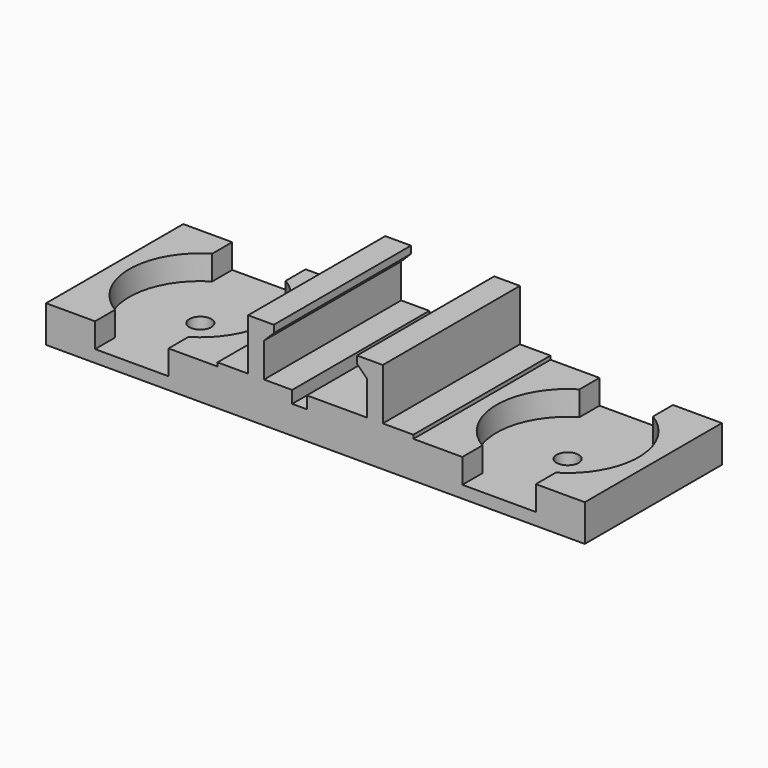
from build123d import *

# Parameters (mm, degrees)
PAD004_DEPTH          = 7
CLONE_PLACEMENT_ANGLE = -90
SKETCH009_W           = 14
SKETCH009_H           = 14
PAD003_DEPTH          = 3
POCKET006_DEPTH       = 2
SKETCH011_R           = 0.9
POCKET007_DEPTH       = 1.001


with BuildPart() as array:
    # Sketch012 → Pad004 (new body, symmetric)
    with BuildSketch(Plane.YZ):
        Polygon((-8, 0), (-8, 3.3), (-5.5, 3.3), (-5.5, 7.5), (-3.4, 7.5), (-3.4, 6.9), (-4.2, 6.1), (-4.2, 3.3), (-1.9, 3.3), (-1.9, 2.3), (-0.7, 2.3), (-0.7, 3.3), (4.2, 3.3), (4.2, 6.1), (3.4, 6.9), (3.4, 7.5), (5.5, 7.5), (5.5, 3.3), (8, 3.3), (8, 0), align=None)
    extrude(amount=PAD004_DEPTH, both=True)


with BuildPart() as array_1:
    # Clone placement: moved
    add(array.part.moved(Location((15, 0, 0))).rotate(Axis((15, 0, 0), (0, 0, 1)), CLONE_PLACEMENT_ANGLE))


with BuildPart() as obj1:
    # Sketch009 → Pad003 (new body)
    with BuildSketch(Plane.XY):
        Rectangle(SKETCH009_W, SKETCH009_H)
    extrude(amount=PAD003_DEPTH)

    # Sketch010 → Pocket006 (cut)
    with BuildSketch(Plane.XY.offset(3)):
        with BuildLine():
            Line((-3, 7), (-3, 4.963869))
            ThreePointArc((-3, 4.963869), (-5.8, 0), (-3, -4.963869))
            Line((-3, -7), (-3, -4.963869))
            Line((3, -7), (-3, -7))
            Line((3, -4.963869), (3, -7))
            ThreePointArc((3, -4.963869), (5.8, 0), (3, 4.963869))
            Line((3, 7), (3, 4.963869))
            Line((-3, 7), (3, 7))
        make_face()
    extrude(amount=-POCKET006_DEPTH, mode=Mode.SUBTRACT)

    # Sketch011 → Pocket007 (cut, through all)
    with BuildSketch(Plane.XY.offset(1)):
        Circle(SKETCH011_R)
    extrude(amount=-POCKET007_DEPTH, mode=Mode.SUBTRACT)


with BuildPart() as board_clamp_generic_fusion:
    # Clone008003 base: copy of obj1
    add(obj1.part)


with BuildPart() as board_clamp_generic_fusion_1:
    # Clone008003 placement: moved
    add(board_clamp_generic_fusion.part.moved(Location((30, 0, 0))))

    # Fusion: union Array, obj1
    add(array_1.part)
    add(obj1.part)


solid = board_clamp_generic_fusion_1.part
